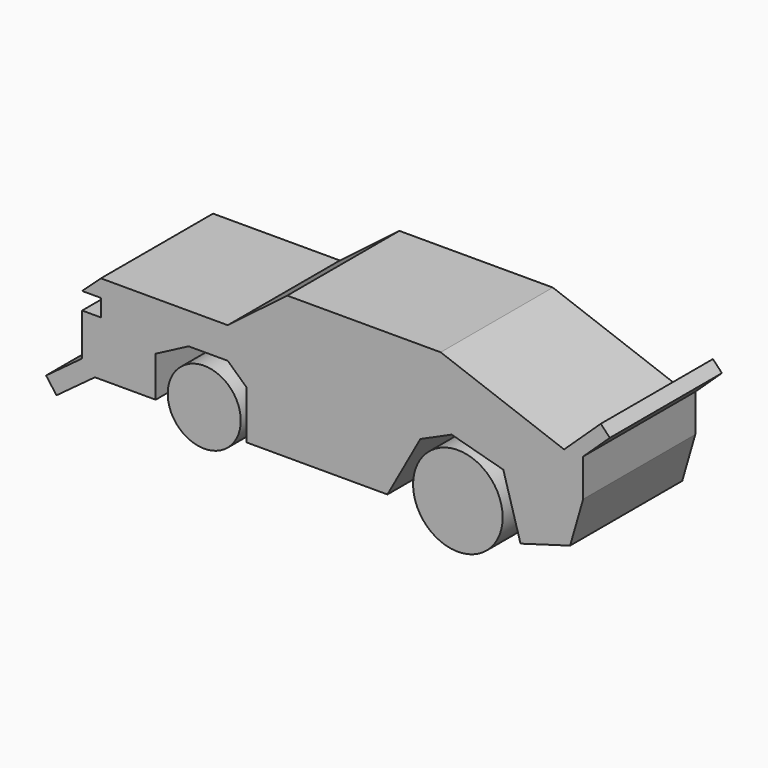
from build123d import *

# Parameters (mm, degrees)
F0_R     = 8.114688
F0_R_2   = 6.617511
F1_DEPTH = 25.4
F3_DEPTH = 25.4


with BuildPart() as f1:
    # F0 (on Front) → F1 (new body)
    with BuildSketch(Plane.XZ):
        with Locations((27.095586, 6.809362)):
            Circle(F0_R)
        with Locations((-18.867606, 6.809362)):
            Circle(F0_R_2)
    extrude(amount=F1_DEPTH)


with BuildPart() as f3:
    # F2 (on Front) → F3 (new body)
    with BuildSketch(Plane.XZ):
        Polygon((-11.207075, 12.483831), (-11.207075, 3.688404), (14.328031, 3.688404), (20.286225, 14.469894), (25.960695, 17.023405), (35.323564, 14.469894), (38.444523, 3.688404), (47.42795, 6.288871), (49.793456, 14.469894), (49.793456, 21.279255), (54.616753, 25.81883), (52.992502, 27.544596), (46.335579, 21.279255), (23.974625, 29.507235), (-3.830265, 29.507235), (-14.611755, 21.279255), (-37.59335, 21.279255), (-40.998034, 18.158298), (-37.59335, 18.158298), (-37.59335, 15.037341), (-40.998034, 15.037341), (-40.998034, 7.376809), (-47.52367, 2.553511), (-45.636292, 0), (-38.679868, 5.141706), (-27.663032, 5.141706), (-27.663032, 12.483831), (-21.704841, 15.604788), (-14.611755, 15.604788), align=None)
    extrude(amount=F3_DEPTH)


solid = Compound([f1.part, f3.part])
